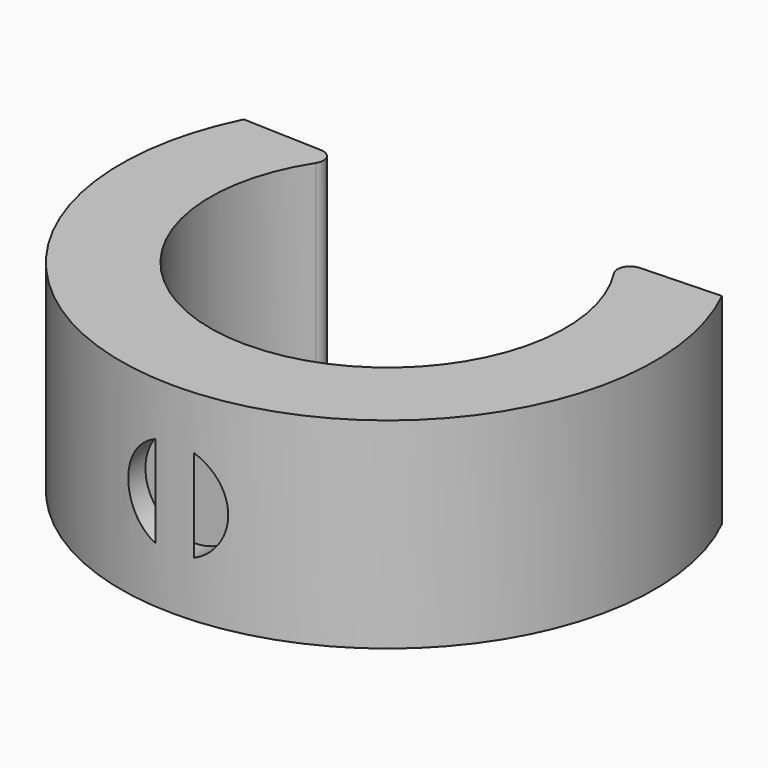
from build123d import *

# Parameters (mm, degrees)
F2_DEPTH = 7.92
F3_R     = 0.5
F5_R     = 1.968691
F6_DEPTH = 1


with BuildPart() as f2:
    # F1 (on Top) → F2 (new body)
    with BuildSketch(Plane.XY):
        with BuildLine():
            Line((-5.330044, 4.538535), (-9.425229, 4.688782))
            ThreePointArc((-9.425229, 4.688782), (0, -10.527089), (9.425229, 4.688782))
            Line((9.425229, 4.688782), (5.330044, 4.538535))
            ThreePointArc((5.330044, 4.538535), (0, -7.000548), (-5.330044, 4.538535))
        make_face()
    extrude(amount=F2_DEPTH)

    # F3
    f3_edges = [f2.edges().sort_by_distance(p)[0] for p in [
        (-5.330044, 4.538535, 3.96),
        (5.330044, 4.538535, 3.96),
    ]]
    fillet(f3_edges, radius=F3_R)

    # F5 (on offset) → F6 (cut)
    with BuildSketch(Plane.XZ.offset(10.5)):
        with Locations((0.012802, 4.007582)):
            Circle(F5_R)
    extrude(amount=-F6_DEPTH, mode=Mode.SUBTRACT)


solid = f2.part
